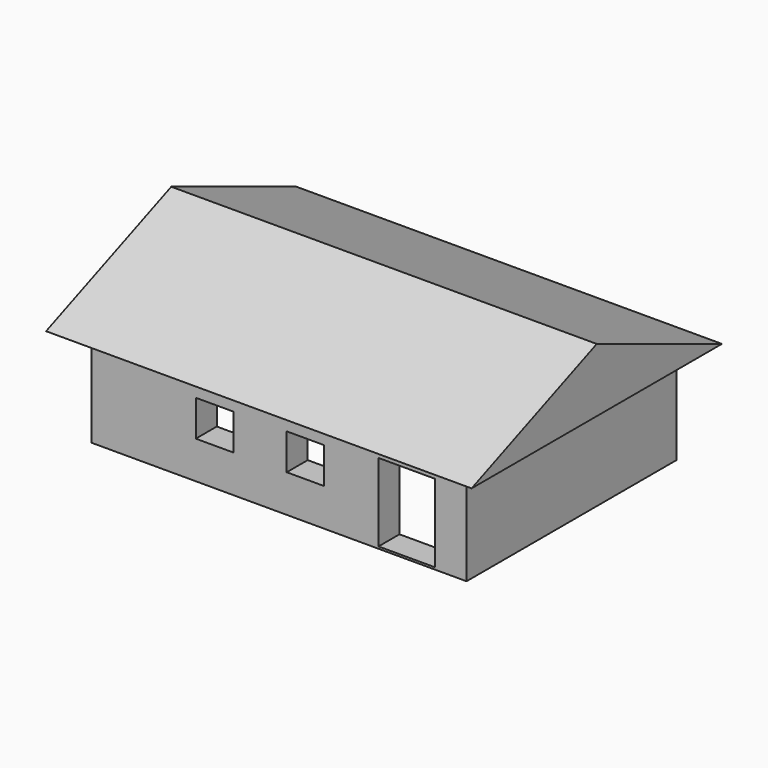
from build123d import *

# Parameters (mm, degrees)
F0_W          = 8600
F0_H          = 5600
F1_DEPTH      = 2670
F2_W          = 1500
F2_H          = 2076.315373
F2_W_2        = 1000
F2_H_2        = 960
F3_DEPTH      = 700
F5_DEPTH      = 670
F5_DEPTH_BACK = 10670


with BuildPart() as f1:
    # F0 (on Top) → F1 (new body)
    with BuildSketch(Plane.XY):
        Polygon((0, 7000), (0, 0), (690.367639, 0), (700, 0), (10000, 0), (10000, 7000), align=None)
        with Locations((5000, 3500)):
            Rectangle(F0_W, F0_H, mode=Mode.SUBTRACT)
    extrude(amount=F1_DEPTH)

    # F2 (on face) → F3 (cut, through all)
    with BuildSketch(Plane.XZ):
        with Locations((8403.1353, 1093.100324)):
            Rectangle(F2_W, F2_H)
        with Locations((5707.247257, 1480)):
            Rectangle(F2_W_2, F2_H_2)
        with Locations((3283.594608, 1480)):
            Rectangle(F2_W_2, F2_H_2)
    extrude(amount=-F3_DEPTH, mode=Mode.SUBTRACT)

    # F4 (on face) → F5 (join, two sides)
    with BuildSketch(Plane(origin=(0, 0, 0), x_dir=(0, -1, 0), z_dir=(-1, 0, 0))) as f5_sk:
        Polygon((-3500, 4364.433988), (-7670, 2670), (-7000, 2670), (0, 2670), (670, 2670), align=None)
    extrude(amount=F5_DEPTH)
    extrude(f5_sk.sketch, amount=-F5_DEPTH_BACK)


solid = f1.part
